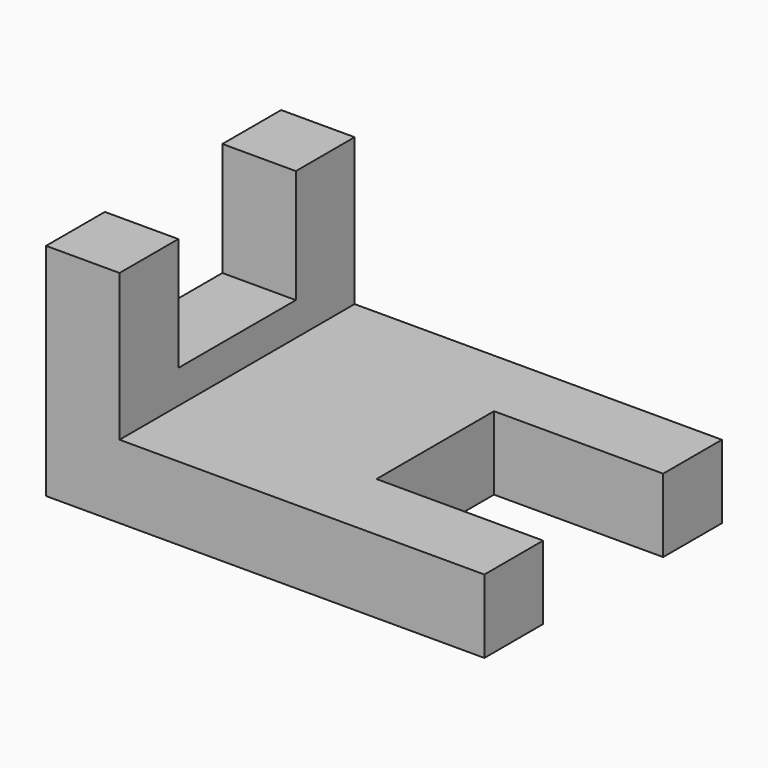
from build123d import *

# Parameters (mm, degrees)
F1_DEPTH = 25.4
F3_DEPTH = 25.4


with BuildPart() as f1:
    # F0 (on Top) → F1 (new body)
    with BuildSketch(Plane.XY):
        Polygon((12.468524, 22.91733), (-114.531476, 22.91733), (-114.531476, -78.68267), (11.619264, -78.68267), (11.619264, -53.28267), (-46.009442, -53.28267), (-46.009442, -2.48267), (12.468524, -2.48267), align=None)
    extrude(amount=F1_DEPTH)

    # F2 (on face) → F3 (join)
    with BuildSketch(Plane(origin=(-114.531476, 0, 0), x_dir=(0, -1, 0), z_dir=(-1, 0, 0))):
        Polygon((-22.91733, 76.2), (-22.91733, 0), (78.68267, 0), (78.68267, 76.166742), (53.28267, 76.166742), (53.28267, 36.926549), (2.48267, 36.926549), (2.48267, 76.2), align=None)
    extrude(amount=F3_DEPTH)


solid = f1.part
